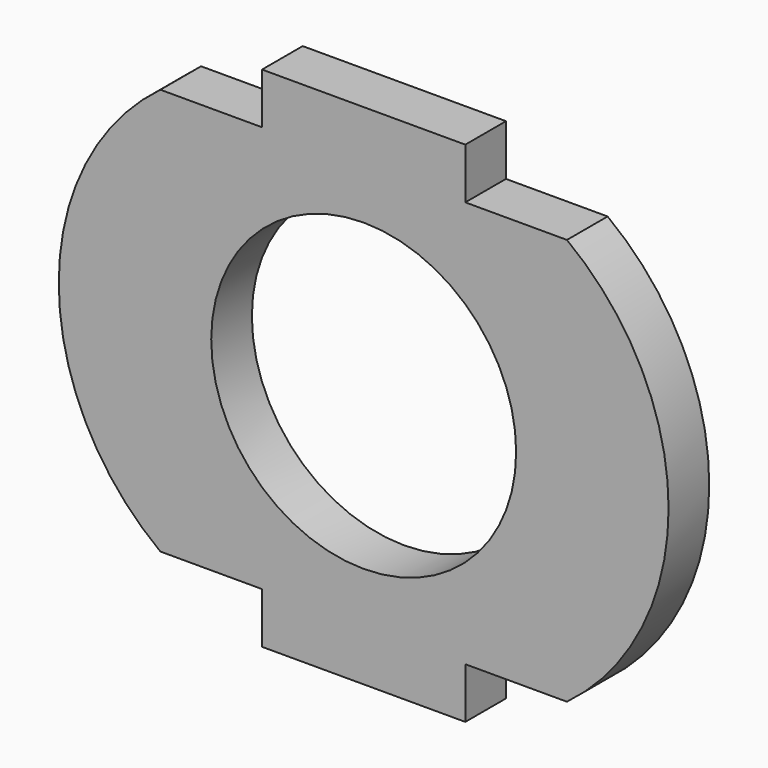
from build123d import *

# Parameters (mm, degrees)
F0_R     = 9.525
F1_DEPTH = 3.175


with BuildPart() as f1:
    # F0 (on Front) → F1 (new body)
    with BuildSketch(Plane.XZ):
        with BuildLine():
            Line((-6.35, 12.7), (-12.7, 12.7))
            ThreePointArc((-12.7, 12.7), (-19.05, 0), (-12.7, -12.7))
            Line((-12.7, -12.7), (-6.35, -12.7))
            Line((-6.35, -12.7), (-6.35, -15.875))
            Line((-6.35, -15.875), (6.35, -15.875))
            Line((6.35, -15.875), (6.35, -12.7))
            Line((6.35, -12.7), (12.7, -12.7))
            ThreePointArc((12.7, -12.7), (19.05, 0), (12.7, 12.7))
            Line((12.7, 12.7), (6.35, 12.7))
            Line((6.35, 12.7), (6.35, 15.875))
            Line((6.35, 15.875), (-6.35, 15.875))
            Line((-6.35, 15.875), (-6.35, 12.7))
        make_face()
        Circle(F0_R, mode=Mode.SUBTRACT)
    extrude(amount=F1_DEPTH)


solid = f1.part
